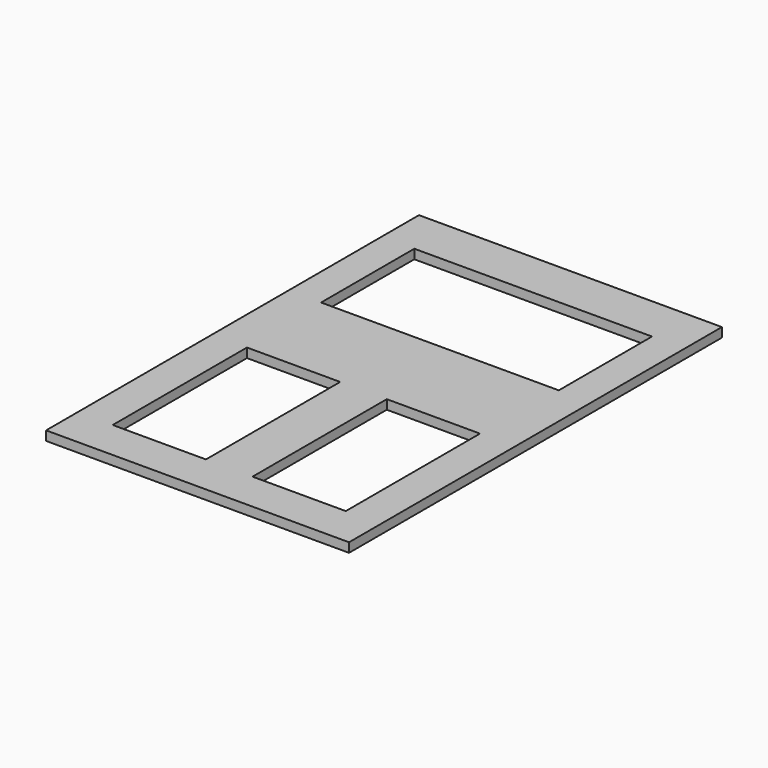
from build123d import *

# Parameters (mm, degrees)
F0_W     = 65
F0_H     = 100
F0_W_2   = 20
F0_H_2   = 36
F0_W_3   = 51
F0_H_3   = 25
F1_DEPTH = 2


with BuildPart() as f1:
    # F0 (on Top) → F1 (new body)
    with BuildSketch(Plane.XY):
        Rectangle(F0_W, F0_H)
        with Locations((-15, -23.504718)):
            Rectangle(F0_W_2, F0_H_2, mode=Mode.SUBTRACT)
        with Locations((15, -23.504718)):
            Rectangle(F0_W_2, F0_H_2, mode=Mode.SUBTRACT)
        with Locations((0, 27.5)):
            Rectangle(F0_W_3, F0_H_3, mode=Mode.SUBTRACT)
    extrude(amount=F1_DEPTH)


solid = f1.part
